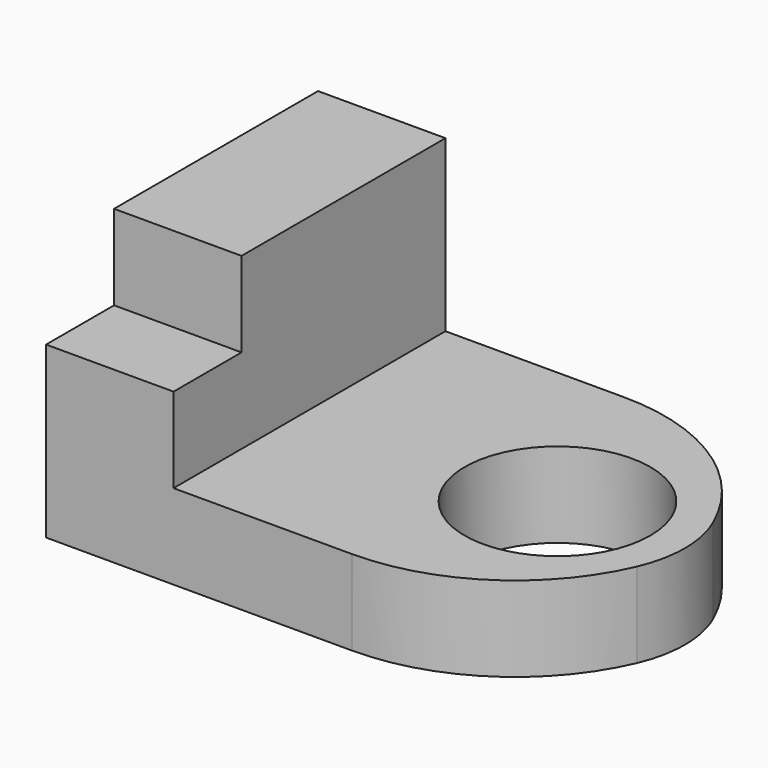
from build123d import *

# Parameters (mm, degrees)
F1_DEPTH = 12.7
F2_W     = 19.05
F2_H     = 50.8
F3_DEPTH = 25.4
F4_W     = 19.05
F4_H     = 12.7
F5_DEPTH = 12.7
F6_R     = 13.8806094442
F7_DEPTH = 12.7
F8_R     = 17.78


with BuildPart() as f1:
    # F0 (on Top) → F1 (new body)
    with BuildSketch(Plane.XY):
        with BuildLine():
            ThreePointArc((37.6736852981, 0), (27.2947553987, 18.1994845304), (7.62, 25.4))
            Line((7.62, 25.4), (-38.1, 25.4))
            Line((-38.1, 25.4), (-38.1, -25.4))
            Line((-38.1, -25.4), (7.62, -25.4))
            ThreePointArc((7.62, -25.4), (27.2947553987, -18.1994845304), (37.6736852981, 0))
        make_face()
    extrude(amount=F1_DEPTH)

    # F2 (on face) → F3 (join)
    with BuildSketch(Plane.XY.offset(12.7)):
        with Locations((-28.575, 0)):
            Rectangle(F2_W, F2_H)
    extrude(amount=F3_DEPTH)

    # F4 (on face) → F5 (cut)
    with BuildSketch(Plane.XY.offset(38.1)):
        with Locations((-28.575, -19.05)):
            Rectangle(F4_W, F4_H)
    extrude(amount=-F5_DEPTH, mode=Mode.SUBTRACT)

    # F6 (on face) → F7 (cut)
    with BuildSketch(Plane.XY.offset(12.7)):
        with Locations((18.0154964328, 0)):
            Circle(F6_R)
    extrude(amount=-F7_DEPTH, mode=Mode.SUBTRACT)

    # F8
    f8_edges = [f1.edges().sort_by_distance(p)[0] for p in [
        (37.673685, 0, 6.35),
    ]]
    fillet(f8_edges, radius=F8_R)


solid = f1.part
